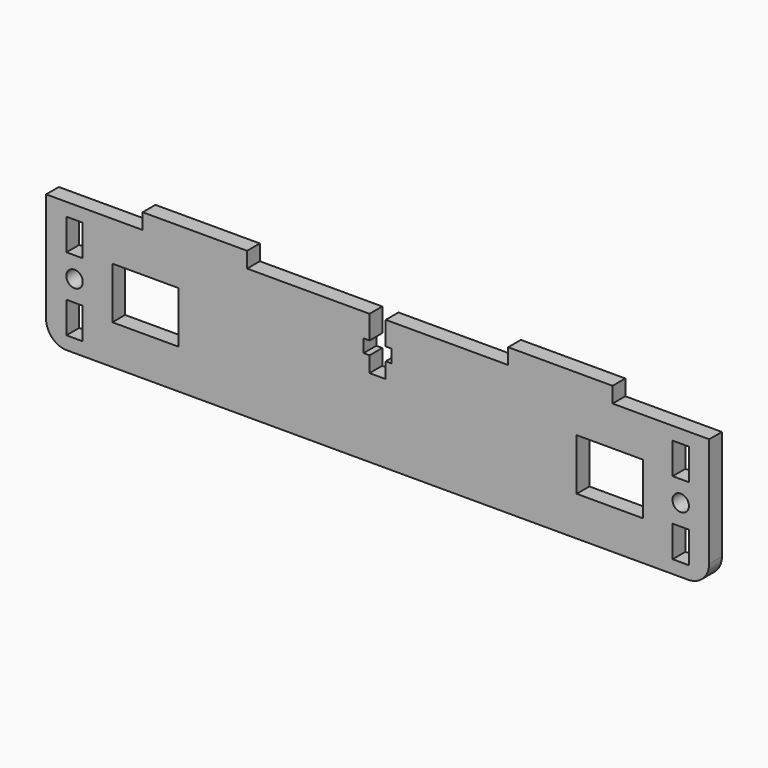
from build123d import *

# Parameters (mm, degrees)
F0_W     = 127
F0_H     = 25
F0_W_2   = 12.68
F0_H_2   = 9.89
F1_DEPTH = 1.525
F2_W     = 20
F2_H     = 3
F3_DEPTH = 3.05
F4_W     = 3.1
F4_H     = 4.5
F4_H_2   = 2.5
F4_W_2   = 1.15
F4_H_3   = 3
F5_DEPTH = 3.05
F6_W     = 3.1
F6_H     = 6
F6_R     = 1.575
F7_DEPTH = 3.05
F8_R     = 4


with BuildPart() as f1:
    # F0 (on Front) → F1 (new body, symmetric)
    with BuildSketch(Plane.XZ):
        Rectangle(F0_W, F0_H)
        with Locations((-44.46, 0)):
            Rectangle(F0_W_2, F0_H_2, mode=Mode.SUBTRACT)
        with Locations((44.46, 0)):
            Rectangle(F0_W_2, F0_H_2, mode=Mode.SUBTRACT)
    extrude(amount=F1_DEPTH, both=True)

    # F2 (on face) → F3 (join, through all)
    with BuildSketch(Plane.XZ.offset(1.525)):
        with Locations((-35, 14)):
            Rectangle(F2_W, F2_H)
        with Locations((35, 14)):
            Rectangle(F2_W, F2_H)
    extrude(amount=-F3_DEPTH)

    # F4 (on face) → F5 (cut, through all)
    with BuildSketch(Plane.XZ.offset(1.525)):
        with Locations((0, 10.25)):
            Rectangle(F4_W, F4_H)
        with Locations((0, 6.75)):
            Rectangle(F4_W, F4_H_2)
        with Locations((-2.125, 6.75)):
            Rectangle(F4_W_2, F4_H_2)
        with Locations((2.125, 6.75)):
            Rectangle(F4_W_2, F4_H_2)
        with Locations((0, 4)):
            Rectangle(F4_W, F4_H_3)
    extrude(amount=-F5_DEPTH, mode=Mode.SUBTRACT)

    # F6 (on face) → F7 (cut, through all)
    with BuildSketch(Plane.XZ.offset(1.525)):
        with Locations((-58.05, 7)):
            Rectangle(F6_W, F6_H)
        with Locations((-58.05, -7)):
            Rectangle(F6_W, F6_H)
        with Locations((-58.05, 0)):
            Circle(F6_R)
        with Locations((58.05, 7)):
            Rectangle(F6_W, F6_H)
        with Locations((58.05, -7)):
            Rectangle(F6_W, F6_H)
        with Locations((58.05, 0)):
            Circle(F6_R)
    extrude(amount=-F7_DEPTH, mode=Mode.SUBTRACT)

    # F8
    f8_edges = [f1.edges().sort_by_distance(p)[0] for p in [
        (-63.5, 0, -12.5),
        (63.5, 0, -12.5),
    ]]
    fillet(f8_edges, radius=F8_R)


solid = f1.part
